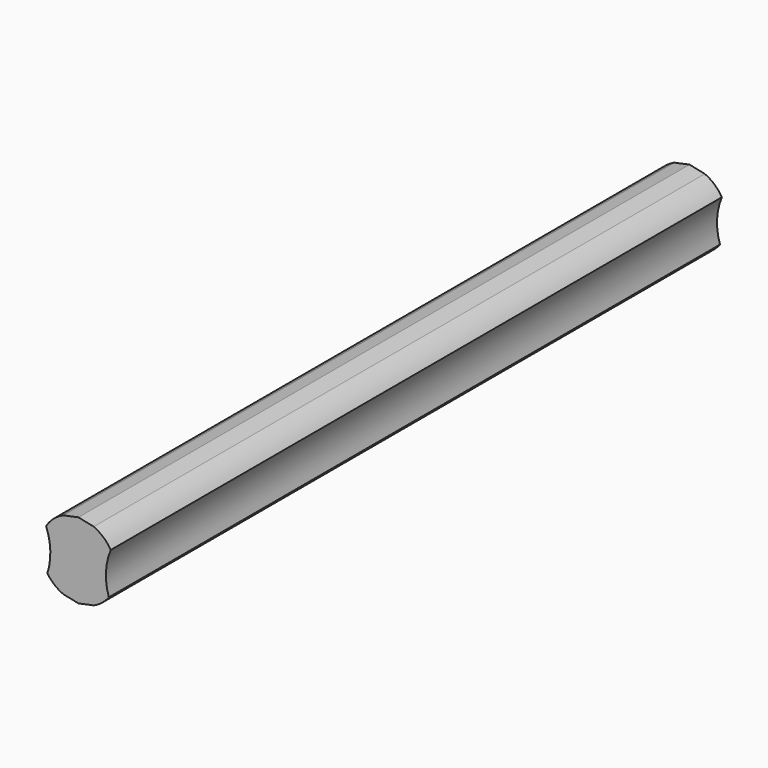
from build123d import *

# Parameters (mm, degrees)
F1_DEPTH = 127


with BuildPart() as f1:
    # F0 (on Front) → F1 (new body)
    with BuildSketch(Plane.XZ):
        with BuildLine():
            Line((25.418775, -10.188777), (22.881775, -10.722313))
            ThreePointArc((22.881775, -10.722313), (21.269347, -11.748756), (20.039052, -13.211589))
            ThreePointArc((20.039052, -13.211589), (20.74222, -16.628007), (20.245645, -20.08051))
            ThreePointArc((20.245645, -20.08051), (21.413679, -21.348552), (22.881775, -22.252392))
            Line((22.881775, -22.252392), (25.418775, -22.785928))
            Line((25.418775, -22.785928), (27.955776, -22.252392))
            ThreePointArc((27.955776, -22.252392), (29.344167, -21.413137), (30.472134, -20.247089))
            ThreePointArc((30.472134, -20.247089), (29.994965, -16.699634), (30.798498, -13.211589))
            ThreePointArc((30.798498, -13.211589), (29.568203, -11.748756), (27.955776, -10.722313))
            Line((27.955776, -10.722313), (25.418775, -10.188777))
        make_face()
    extrude(amount=-F1_DEPTH)


solid = f1.part
